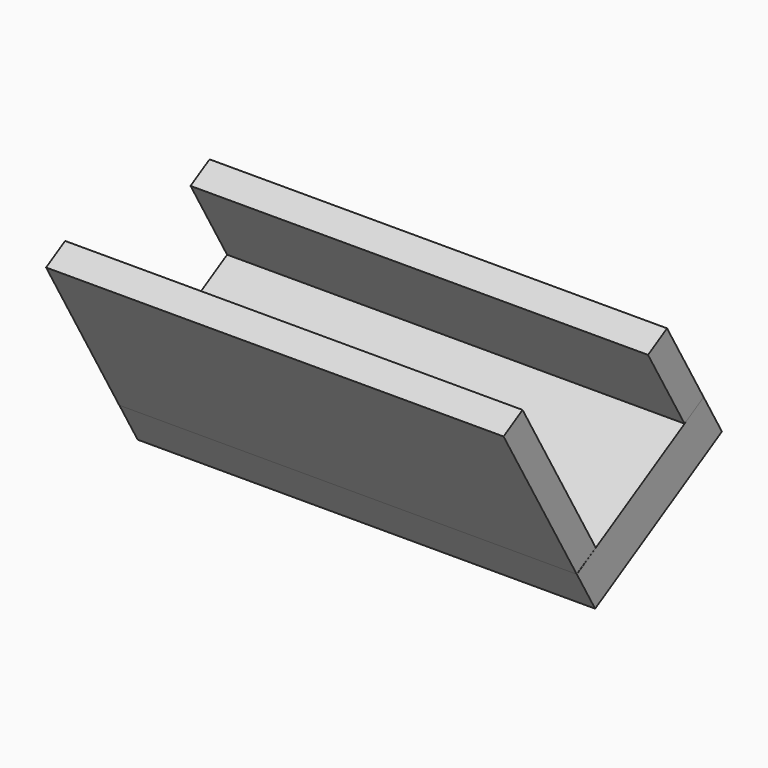
from build123d import *

# Parameters (mm, degrees)
SKETCH043_W             = 50
SKETCH043_H             = 20
PAD042_DEPTH            = 5
SKETCH044_W             = 50
SKETCH044_H             = 3
PAD043_DEPTH            = 20
SKETCH047_W             = 50
SKETCH047_H             = 10
PAD046_DEPTH            = 3
BODY039_PLACEMENT_ANGLE = 30


with BuildPart() as part:
    # Sketch043 → Pad042 (new body)
    with BuildSketch(Plane.XY):
        with Locations((184.845276, -123.914059)):
            Rectangle(SKETCH043_W, SKETCH043_H)
    extrude(amount=PAD042_DEPTH)

    # Sketch044 (on Face6 of Pad042) → Pad043 (join)
    with BuildSketch(Plane.XY.offset(5)):
        with Locations((184.83606, -132.417099)):
            Rectangle(SKETCH044_W, SKETCH044_H)
    extrude(amount=PAD043_DEPTH)

    # Sketch047 (on Face7 of Pad043) → Pad046 (join)
    with BuildSketch(Plane(origin=(0, -113.914059, 0), x_dir=(-1, 0, 0), z_dir=(0, 1, 0))):
        with Locations((-184.841869, 9.989668)):
            Rectangle(SKETCH047_W, SKETCH047_H)
    extrude(amount=-PAD046_DEPTH)


with BuildPart() as part_1:
    # Body039 placement: moved
    add(part.part.moved(Location((-277.8, 172.552859, 124.035873))).rotate(Axis((-277.8, 172.552859, 124.035873), (1, 0, 0)), BODY039_PLACEMENT_ANGLE))


solid = part_1.part
